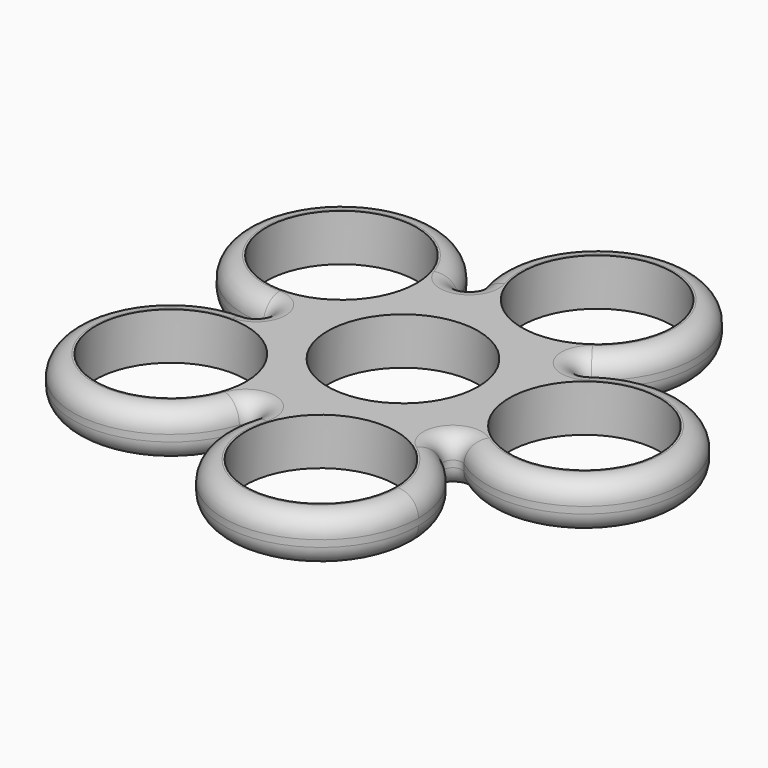
from build123d import *

# Parameters (mm, degrees)
F1_R     = 11.2
F2_DEPTH = 3.5
F3_R     = 3


with BuildPart() as f2:
    # F1 (on Top) → F2 (new body, symmetric)
    with BuildSketch(Plane.XY):
        with BuildLine():
            ThreePointArc((18.4771138418, -11.7307464184), (33.5828622462, -12.9195946007), (41.5, 0))
            ThreePointArc((41.5, 0), (33.5828622462, 12.9195946007), (18.4771138418, 11.7307464184))
            ThreePointArc((18.4771138418, 11.7307464184), (12.5, 0), (18.4771138418, -11.7307464184))
        make_face()
        with Locations((27, 0)):
            Circle(F1_R, mode=Mode.SUBTRACT)
        with BuildLine():
            ThreePointArc((18.4771138418, -11.7307464184), (12.5, 0), (18.4771138418, 11.7307464184))
            ThreePointArc((18.4771138418, 11.7307464184), (16.5632128725, 12.0338785523), (16.8663450064, 13.9477795215))
            ThreePointArc((16.8663450064, 13.9477795215), (3.8627124297, 11.8882064537), (-5.4468606382, 21.1977795215))
            ThreePointArc((-5.4468606382, 21.1977795215), (-6.3265843544, 19.4712245141), (-8.0531393618, 20.3509482303))
            ThreePointArc((-8.0531393618, 20.3509482303), (-7.5219779095, 18.138501555), (-7.3434588481, 15.8702018119))
            ThreePointArc((-7.3434588481, 15.8702018119), (-11.5904105209, 5.6171534847), (-21.8434588481, 1.3702018119))
            ThreePointArc((-21.8434588481, 1.3702018119), (-20.4732570362, 0), (-21.8434588481, -1.3702018119))
            ThreePointArc((-21.8434588481, -1.3702018119), (-11.5904105209, -5.6171534847), (-7.3434588481, -15.8702018119))
            ThreePointArc((-7.3434588481, -15.8702018119), (-7.5219779095, -18.138501555), (-8.0531393618, -20.3509482303))
            ThreePointArc((-8.0531393618, -20.3509482303), (-6.3265843544, -19.4712245141), (-5.4468606382, -21.1977795215))
            ThreePointArc((-5.4468606382, -21.1977795215), (3.8627124297, -11.8882064537), (16.8663450064, -13.9477795215))
            ThreePointArc((16.8663450064, -13.9477795215), (16.5632128725, -12.0338785523), (18.4771138418, -11.7307464184))
        make_face()
        Circle(F1_R, mode=Mode.SUBTRACT)
        with BuildLine():
            ThreePointArc((-5.4468606382, 21.1977795215), (3.8627124297, 11.8882064537), (16.8663450064, 13.9477795215))
            ThreePointArc((16.8663450064, 13.9477795215), (21.2630534489, 19.0956636937), (22.8434588481, 25.67852594))
            ThreePointArc((22.8434588481, 25.67852594), (6.075159105, 40.0000068786), (-5.4468606382, 21.1977795215))
        make_face()
        with Locations((8.3434588481, 25.67852594)):
            Circle(F1_R, mode=Mode.SUBTRACT)
        with BuildLine():
            ThreePointArc((22.8434588481, -25.67852594), (21.2630534489, -19.0956636937), (16.8663450064, -13.9477795215))
            ThreePointArc((16.8663450064, -13.9477795215), (3.8627124297, -11.8882064537), (-5.4468606382, -21.1977795215))
            ThreePointArc((-5.4468606382, -21.1977795215), (6.075159105, -40.0000068786), (22.8434588481, -25.67852594))
        make_face()
        with Locations((8.3434588481, -25.67852594)):
            Circle(F1_R, mode=Mode.SUBTRACT)
        with BuildLine():
            ThreePointArc((-7.3434588481, 15.8702018119), (-7.5219779095, 18.138501555), (-8.0531393618, 20.3509482303))
            ThreePointArc((-8.0531393618, 20.3509482303), (-33.5742052666, 24.3930879701), (-21.8434588481, 1.3702018119))
            ThreePointArc((-21.8434588481, 1.3702018119), (-11.5904105209, 5.6171534847), (-7.3434588481, 15.8702018119))
        make_face()
        with Locations((-21.8434588481, 15.8702018119)):
            Circle(F1_R, mode=Mode.SUBTRACT)
        with BuildLine():
            ThreePointArc((-21.8434588481, -1.3702018119), (-33.5742052666, -24.3930879701), (-8.0531393618, -20.3509482303))
            ThreePointArc((-8.0531393618, -20.3509482303), (-7.5219779095, -18.138501555), (-7.3434588481, -15.8702018119))
            ThreePointArc((-7.3434588481, -15.8702018119), (-11.5904105209, -5.6171534847), (-21.8434588481, -1.3702018119))
        make_face()
        with Locations((-21.8434588481, -15.8702018119)):
            Circle(F1_R, mode=Mode.SUBTRACT)
    extrude(amount=F2_DEPTH, both=True)

    # F3
    f3_edges = [f2.edges().sort_by_distance(p)[0] for p in [
        (-33.574205, -24.393088, 3.5),
        (-33.574205, -24.393088, -3.5),
    ]]
    fillet(f3_edges, radius=F3_R)


solid = f2.part
